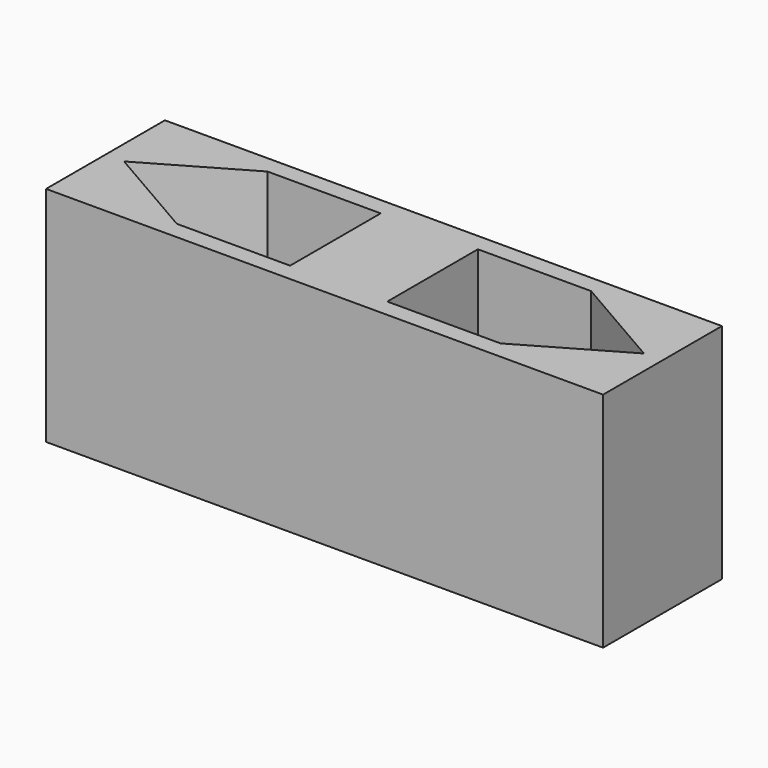
from build123d import *

# Parameters (mm, degrees)
F0_W     = 15
F0_H     = 4
F1_DEPTH = 4
F2_DEPTH = 2
F3_DEPTH = 3.05
F4_DEPTH = 3.05


with BuildPart() as f1:
    # F0 (on Top) → F1 (new body)
    with BuildSketch(Plane.XY):
        Rectangle(F0_W, F0_H)
        Polygon((-4.3586225185, -1.525), (-7, 0), (-4.3586225185, 1.525), align=None, mode=Mode.SUBTRACT)
        Polygon((4.3586225185, 1.525), (7, 0), (4.3586225185, -1.525), align=None, mode=Mode.SUBTRACT)
    extrude(amount=F1_DEPTH)

    # F0 (on Top) → F2 (join)
    with BuildSketch(Plane.XY):
        Rectangle(F0_W, F0_H)
        Polygon((-4.3586225185, -1.525), (-7, 0), (-4.3586225185, 1.525), align=None, mode=Mode.SUBTRACT)
        Polygon((4.3586225185, 1.525), (7, 0), (4.3586225185, -1.525), align=None, mode=Mode.SUBTRACT)
        Polygon((-4.3586225185, 1.525), (-7, 0), (-4.3586225185, -1.525), align=None)
        Polygon((4.3586225185, -1.525), (7, 0), (4.3586225185, 1.525), align=None)
    extrude(amount=-F2_DEPTH)

    # F3 (cut): a face of the model
    f3_faces = [f1.faces().sort_by_distance(p)[0] for p in [
        (4.3586225185, 0, 2),
    ]]
    extrude(f3_faces, amount=-F3_DEPTH, mode=Mode.SUBTRACT)

    # F4 (cut): a face of the model
    f4_faces = [f1.faces().sort_by_distance(p)[0] for p in [
        (-4.3586225185, 0, 2),
    ]]
    extrude(f4_faces, amount=-F4_DEPTH, mode=Mode.SUBTRACT)


solid = f1.part
